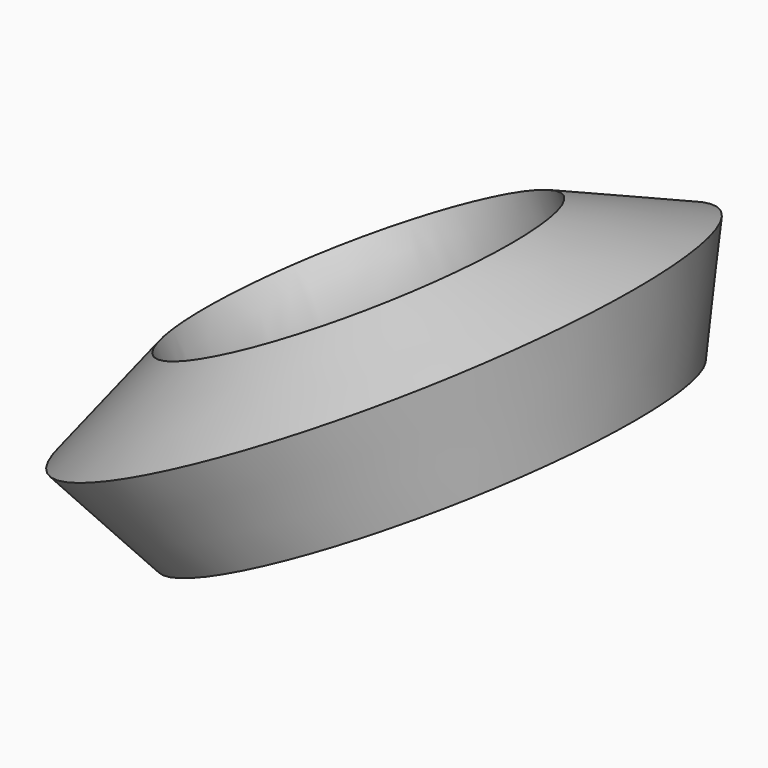
from build123d import *


with BuildPart() as f1:
    # F0 (on Front) → F1 (revolve)
    with BuildSketch(Plane.XZ):
        with BuildLine():
            ThreePointArc((18.402336, 45.672551), (29.363248, 30.609609), (45.114834, 20.663686))
            Line((45.114834, 20.663686), (45.114834, 45.672551))
            Line((45.114834, 45.672551), (18.402336, 45.672551))
        make_face()
    revolve(axis=Axis((-16.420325, 0, 32.085825), (-0.455571, 0, 0.8902)))


solid = f1.part
